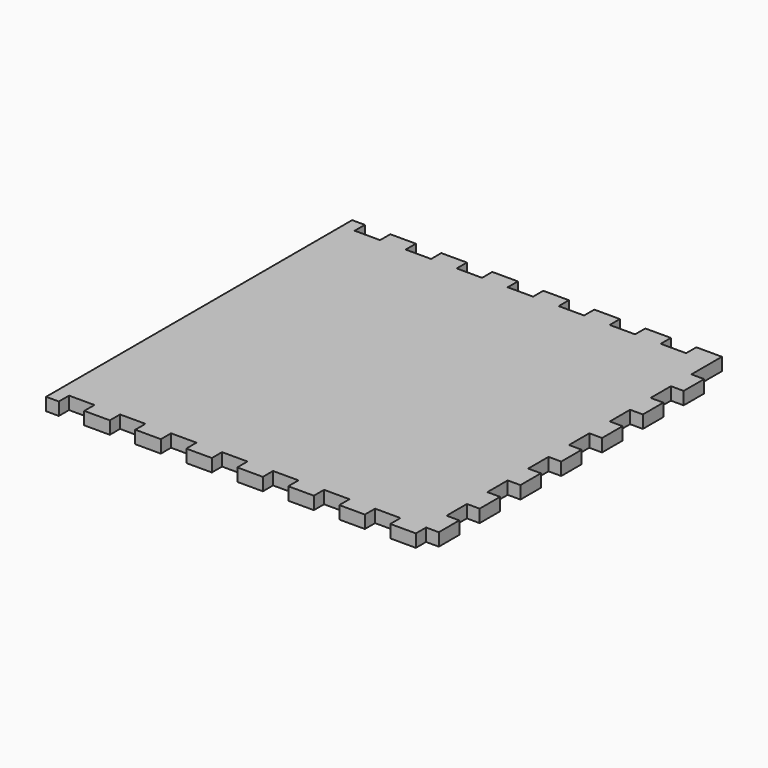
from build123d import *

# Parameters (mm, degrees)
F0_W     = 300
F0_H     = 300
F1_DEPTH = 10
F2_W     = 19.925
F2_H     = 10
F2_W_2   = 10
F2_H_2   = 19.925
F3_DEPTH = 10.001


with BuildPart() as f1:
    # F0 (on Top) → F1 (new body)
    with BuildSketch(Plane.XY):
        with Locations((150, 150)):
            Rectangle(F0_W, F0_H)
    extrude(amount=F1_DEPTH)

    # F2 (on face) → F3 (cut, through all)
    with BuildSketch(Plane.XY):
        with Locations((19.9625, 5)):
            Rectangle(F2_W, F2_H)
        with Locations((59.9625, 5)):
            Rectangle(F2_W, F2_H)
        with Locations((99.9625, 5)):
            Rectangle(F2_W, F2_H)
        with Locations((139.9625, 5)):
            Rectangle(F2_W, F2_H)
        with Locations((179.9625, 5)):
            Rectangle(F2_W, F2_H)
        with Locations((219.9625, 5)):
            Rectangle(F2_W, F2_H)
        with Locations((259.9625, 5)):
            Rectangle(F2_W, F2_H)
        with Locations((299.9625, 5)):
            Rectangle(F2_W, F2_H)
        with Locations((295, 40.0375)):
            Rectangle(F2_W_2, F2_H_2)
        with Locations((295, 80.0375)):
            Rectangle(F2_W_2, F2_H_2)
        with Locations((295, 120.0375)):
            Rectangle(F2_W_2, F2_H_2)
        with Locations((295, 160.0375)):
            Rectangle(F2_W_2, F2_H_2)
        with Locations((295, 200.0375)):
            Rectangle(F2_W_2, F2_H_2)
        with Locations((295, 240.0375)):
            Rectangle(F2_W_2, F2_H_2)
        with Locations((295, 280.0375)):
            Rectangle(F2_W_2, F2_H_2)
        with Locations((295, 295)):
            Rectangle(F2_W_2, F2_H)
        with Locations((259.9625, 295)):
            Rectangle(F2_W, F2_H)
        with Locations((219.9625, 295)):
            Rectangle(F2_W, F2_H)
        with Locations((179.9625, 295)):
            Rectangle(F2_W, F2_H)
        with Locations((139.9625, 295)):
            Rectangle(F2_W, F2_H)
        with Locations((99.9625, 295)):
            Rectangle(F2_W, F2_H)
        with Locations((59.9625, 295)):
            Rectangle(F2_W, F2_H)
        with Locations((19.9625, 295)):
            Rectangle(F2_W, F2_H)
    extrude(amount=F3_DEPTH, mode=Mode.SUBTRACT)


solid = f1.part
